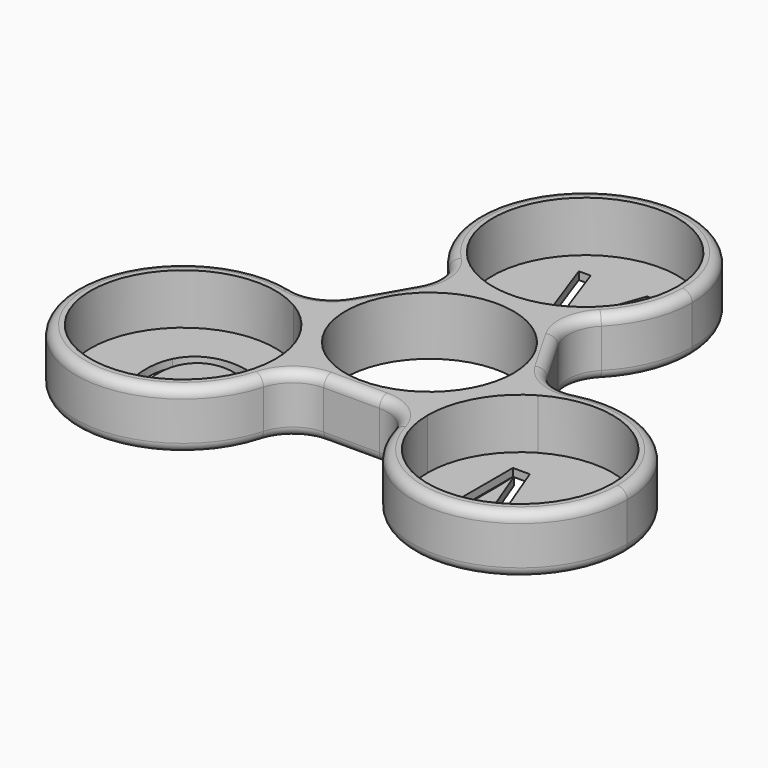
from build123d import *

# Parameters (mm, degrees)
F1_DEPTH = 1.016
F0_R     = 10.9601
F2_DEPTH = 7.62
F3_R     = 5.08
F4_R     = 1.27


with BuildPart() as f1:
    # F0 (on Top) → F1 (new body)
    with BuildSketch(Plane.XY):
        with BuildLine():
            ThreePointArc((-15.9645452561, -2.2514035033), (-32.4456417528, -18.7325), (-9.9320452561, -12.7))
            Line((-9.9320452561, -12.7), (-21.9970452561, -12.7))
            Line((-21.9970452561, -12.7), (-19.1639583446, -7.792949527))
            add(Edge.make_bspline(
                [(-19.1639583446, -7.792949527), (-19.9562504983, -7.5874782986), (-20.748542652, -7.5874782986)],
                knots=[0.4461058905, 0.4461058905, 0.4461058905, 1, 1, 1], degree=2))
            add(Edge.make_bspline(
                [(-20.748542652, -7.5874782986), (-22.8238681728, -7.5874782986), (-24.0255174783, -8.9696506076)],
                knots=[0, 0, 0, 1, 1, 1], degree=2))
            add(Edge.make_bspline(
                [(-24.0255174783, -8.9696506076), (-25.2271667839, -10.3518229167), (-25.2271667839, -12.7551215278)],
                knots=[0, 0, 0, 1, 1, 1], degree=2))
            add(Edge.make_bspline(
                [(-25.2271667839, -12.7551215278), (-25.2271667839, -15.2245659722), (-24.0682366624, -16.5736653646)],
                knots=[0, 0, 0, 1, 1, 1], degree=2))
            add(Edge.make_bspline(
                [(-24.0682366624, -16.5736653646), (-22.9093065408, -17.9227647569), (-20.7650791103, -17.9227647569)],
                knots=[0, 0, 0, 1, 1, 1], degree=2))
            add(Edge.make_bspline(
                [(-20.7650791103, -17.9227647569), (-19.4476745964, -17.9227647569), (-17.75819977, -17.4487196181)],
                knots=[0, 0, 0, 1, 1, 1], degree=2))
            Line((-17.75819977, -17.4487196181), (-17.75819977, -18.7302951389))
            add(Edge.make_bspline(
                [(-17.75819977, -18.7302951389), (-19.0673360547, -19.2236328125), (-20.9883212978, -19.2236328125)],
                knots=[0, 0, 0, 1, 1, 1], degree=2))
            add(Edge.make_bspline(
                [(-20.9883212978, -19.2236328125), (-23.7692023742, -19.2236328125), (-25.2809102735, -17.5341579861)],
                knots=[0, 0, 0, 1, 1, 1], degree=2))
            add(Edge.make_bspline(
                [(-25.2809102735, -17.5341579861), (-26.7926181728, -15.8446831597), (-26.7926181728, -12.7358289931)],
                knots=[0, 0, 0, 1, 1, 1], degree=2))
            add(Edge.make_bspline(
                [(-26.7926181728, -12.7358289931), (-26.7926181728, -10.7900390625), (-26.0650140061, -9.3265625)],
                knots=[0, 0, 0, 1, 1, 1], degree=2))
            add(Edge.make_bspline(
                [(-26.0650140061, -9.3265625), (-25.3374098395, -7.8630859375), (-23.9635057596, -7.0707139757)],
                knots=[0, 0, 0, 1, 1, 1], degree=2))
            add(Edge.make_bspline(
                [(-23.9635057596, -7.0707139757), (-22.5896016797, -6.2783420139), (-20.7292501172, -6.2783420139)],
                knots=[0, 0, 0, 1, 1, 1], degree=2))
            add(Edge.make_bspline(
                [(-20.7292501172, -6.2783420139), (-19.4939442592, -6.2783420139), (-18.4519604406, -6.5597329823)],
                knots=[0, 0, 0, 0.6242503667, 0.6242503667, 0.6242503667], degree=2))
            Line((-18.4519604406, -6.5597329823), (-15.9645452561, -2.2514035033))
        make_face()
        with BuildLine():
            Line((-21.9970452561, -12.7), (-9.9320452561, -12.7))
            ThreePointArc((-9.9320452561, -12.7), (-11.5484487595, -6.6675), (-15.9645452561, -2.2514035033))
            Line((-15.9645452561, -2.2514035033), (-18.4519604406, -6.5597329823))
            add(Edge.make_bspline(
                [(-18.4519604406, -6.5597329823), (-17.8247681173, -6.7291082183), (-17.2676181728, -7.0004340278)],
                knots=[0.6242503667, 0.6242503667, 0.6242503667, 1, 1, 1], degree=2))
            Line((-17.2676181728, -7.0004340278), (-17.8877353603, -8.2572048611))
            add(Edge.make_bspline(
                [(-17.8877353603, -8.2572048611), (-18.5258468525, -7.9584358966), (-19.1639583446, -7.792949527)],
                knots=[0, 0, 0, 0.4461058905, 0.4461058905, 0.4461058905], degree=2))
            Line((-19.1639583446, -7.792949527), (-21.9970452561, -12.7))
        make_face()
    extrude(amount=F1_DEPTH)


with BuildPart() as f1b:
    # F0 (on Top) → F1, piece 2 (new body)
    with BuildSketch(Plane.XY):
        with BuildLine():
            ThreePointArc((15.9645452561, -2.2514035033), (11.5484487595, -6.6675), (9.9320452561, -12.7))
            Line((9.9320452561, -12.7), (16.0549445617, -12.7))
            Line((16.0549445617, -12.7), (16.0549445617, -6.4574869792))
            Line((16.0549445617, -6.4574869792), (18.2598056728, -6.4574869792))
            Line((18.2598056728, -6.4574869792), (20.6564404144, -12.7))
            Line((20.6564404144, -12.7), (21.9970452561, -12.7))
            Line((21.9970452561, -12.7), (15.9645452561, -2.2514035033))
        make_face()
        with BuildLine():
            Line((16.0549445617, -12.7), (9.9320452561, -12.7))
            ThreePointArc((9.9320452561, -12.7), (21.9970452561, -24.765), (34.0620452561, -12.7))
            ThreePointArc((34.0620452561, -12.7), (28.0295452561, -2.2514035033), (15.9645452561, -2.2514035033))
            Line((15.9645452561, -2.2514035033), (21.9970452561, -12.7))
            Line((21.9970452561, -12.7), (20.6564404144, -12.7))
            Line((20.6564404144, -12.7), (22.2478482075, -16.8451388889))
            Line((22.2478482075, -16.8451388889), (22.3167501172, -16.8451388889))
            Line((22.3167501172, -16.8451388889), (26.3378655686, -6.4574869792))
            Line((26.3378655686, -6.4574869792), (28.5261902214, -6.4574869792))
            Line((28.5261902214, -6.4574869792), (28.5261902214, -19.05))
            Line((28.5261902214, -19.05), (27.0627136589, -19.05))
            Line((27.0627136589, -19.05), (27.0627136589, -10.9361111111))
            add(Edge.make_bspline(
                [(27.0627136589, -10.9361111111), (27.0627136589, -9.5415364583), (27.18398102, -7.9044270833)],
                knots=[0, 0, 0, 1, 1, 1], degree=2))
            Line((27.18398102, -7.9044270833), (27.1150791103, -7.9044270833))
            Line((27.1150791103, -7.9044270833), (22.8073317145, -19.05))
            Line((22.8073317145, -19.05), (21.62773102, -19.05))
            Line((21.62773102, -19.05), (19.1974841064, -12.7))
            Line((19.1974841064, -12.7), (17.4081780686, -12.7))
            Line((17.4081780686, -12.7), (17.4081780686, -19.05))
            Line((17.4081780686, -19.05), (16.0549445617, -19.05))
            Line((16.0549445617, -19.05), (16.0549445617, -12.7))
        make_face()
        with BuildLine():
            Line((17.4081780686, -11.0408420139), (17.4081780686, -12.7))
            Line((17.4081780686, -12.7), (19.1974841064, -12.7))
            Line((19.1974841064, -12.7), (17.3558126172, -7.887890625))
            Line((17.3558126172, -7.887890625), (17.2869107075, -7.887890625))
            add(Edge.make_bspline(
                [(17.2869107075, -7.887890625), (17.4081780686, -9.2135633681), (17.4081780686, -11.0408420139)],
                knots=[0, 0, 0, 1, 1, 1], degree=2))
        make_face()
    extrude(amount=F1_DEPTH)


with BuildPart() as f1c:
    # F0 (on Top) → F1, piece 3 (new body)
    with BuildSketch(Plane.XY):
        with BuildLine():
            Line((0, 25.4), (-1.2715549286, 23.1976022591))
            add(Edge.make_bspline(
                [(-1.2715549286, 23.1976022591), (-0.8453750991, 21.9490229211), (-0.5842881944, 20.7642795139)],
                knots=[0.1063077872, 0.1063077872, 0.1063077872, 1, 1, 1], degree=2))
            add(Edge.make_bspline(
                [(-0.5842881944, 20.7642795139), (-0.2728515625, 22.1588541667), (0.2259982639, 23.5451605903)],
                knots=[0, 0, 0, 1, 1, 1], degree=2))
            Line((0.2259982639, 23.5451605903), (0.5478913232, 24.4510243912))
            Line((0.5478913232, 24.4510243912), (0, 25.4))
        make_face()
        with BuildLine():
            ThreePointArc((12.065, 25.4), (-6.0325, 35.8485964967), (-6.0325, 14.9514035033))
            Line((-6.0325, 14.9514035033), (-2.2103607688, 21.5715428454))
            Line((-2.2103607688, 21.5715428454), (-5.8208333333, 31.6425130208))
            Line((-5.8208333333, 31.6425130208), (-4.2691623264, 31.6425130208))
            Line((-4.2691623264, 31.6425130208), (-1.3752821181, 23.4955512153))
            add(Edge.make_bspline(
                [(-1.3752821181, 23.4955512153), (-1.3222504969, 23.3461251003), (-1.2715549286, 23.1976022591)],
                knots=[0, 0, 0, 0.1063077872, 0.1063077872, 0.1063077872], degree=2))
            Line((-1.2715549286, 23.1976022591), (0, 25.4))
            Line((0, 25.4), (0.5478913232, 24.4510243912))
            Line((0.5478913232, 24.4510243912), (3.1033420139, 31.6425130208))
            Line((3.1033420139, 31.6425130208), (4.6770616319, 31.6425130208))
            Line((4.6770616319, 31.6425130208), (1.4952000684, 22.8102375141))
            Line((1.4952000684, 22.8102375141), (6.0325, 14.9514035033))
            ThreePointArc((6.0325, 14.9514035033), (10.4485964967, 19.3675), (12.065, 25.4))
        make_face()
        with BuildLine():
            Line((-2.2103607688, 21.5715428454), (-6.0325, 14.9514035033))
            ThreePointArc((-6.0325, 14.9514035033), (0, 13.335), (6.0325, 14.9514035033))
            Line((6.0325, 14.9514035033), (1.4952000684, 22.8102375141))
            Line((1.4952000684, 22.8102375141), (0.1405598958, 19.05))
            Line((0.1405598958, 19.05), (-1.3063802083, 19.05))
            Line((-1.3063802083, 19.05), (-2.2103607688, 21.5715428454))
        make_face()
    extrude(amount=F1_DEPTH)


with BuildPart() as f2:
    # F0 (on Top) → F2 (new body)
    with BuildSketch(Plane.XY):
        with BuildLine():
            ThreePointArc((13.97, 25.4), (-6.985, 37.4983748909), (-6.985, 13.3016251091))
            Line((-6.985, 13.3016251091), (-6.0325, 14.9514035033))
            ThreePointArc((-6.0325, 14.9514035033), (-6.0325, 35.8485964967), (12.065, 25.4))
            ThreePointArc((12.065, 25.4), (10.4485964967, 19.3675), (6.0325, 14.9514035033))
            Line((6.0325, 14.9514035033), (6.985, 13.3016251091))
            ThreePointArc((6.985, 13.3016251091), (12.0983748909, 18.415), (13.97, 25.4))
        make_face()
        with BuildLine():
            ThreePointArc((-15.0120452561, -0.6016251091), (-34.095420147, -19.685), (-8.0270452561, -12.7))
            Line((-8.0270452561, -12.7), (-9.9320452561, -12.7))
            ThreePointArc((-9.9320452561, -12.7), (-32.4456417528, -18.7325), (-15.9645452561, -2.2514035033))
            Line((-15.9645452561, -2.2514035033), (-15.0120452561, -0.6016251091))
        make_face()
        with BuildLine():
            ThreePointArc((15.0120452561, -0.6016251091), (9.8986703653, -5.715), (8.0270452561, -12.7))
            Line((8.0270452561, -12.7), (9.9320452561, -12.7))
            ThreePointArc((9.9320452561, -12.7), (11.5484487595, -6.6675), (15.9645452561, -2.2514035033))
            Line((15.9645452561, -2.2514035033), (15.0120452561, -0.6016251091))
        make_face()
        with BuildLine():
            Line((9.9320452561, -12.7), (8.0270452561, -12.7))
            ThreePointArc((8.0270452561, -12.7), (21.9970452561, -26.67), (35.9670452561, -12.7))
            ThreePointArc((35.9670452561, -12.7), (28.9820452561, -0.6016251091), (15.0120452561, -0.6016251091))
            Line((15.0120452561, -0.6016251091), (15.9645452561, -2.2514035033))
            ThreePointArc((15.9645452561, -2.2514035033), (28.0295452561, -2.2514035033), (34.0620452561, -12.7))
            ThreePointArc((34.0620452561, -12.7), (21.9970452561, -24.765), (9.9320452561, -12.7))
        make_face()
        with BuildLine():
            Line((-9.9320452561, -12.7), (-8.0270452561, -12.7))
            ThreePointArc((-8.0270452561, -12.7), (-9.8986703653, -5.715), (-15.0120452561, -0.6016251091))
            Line((-15.0120452561, -0.6016251091), (-15.9645452561, -2.2514035033))
            ThreePointArc((-15.9645452561, -2.2514035033), (-11.5484487595, -6.6675), (-9.9320452561, -12.7))
        make_face()
        with BuildLine():
            ThreePointArc((-15.0120452561, -0.6016251091), (-9.8986703653, -5.715), (-8.0270452561, -12.7))
            Line((-8.0270452561, -12.7), (8.0270452561, -12.7))
            ThreePointArc((8.0270452561, -12.7), (9.8986703653, -5.715), (15.0120452561, -0.6016251091))
            Line((15.0120452561, -0.6016251091), (6.985, 13.3016251091))
            ThreePointArc((6.985, 13.3016251091), (0, 11.43), (-6.985, 13.3016251091))
            Line((-6.985, 13.3016251091), (-15.0120452561, -0.6016251091))
        make_face()
        Circle(F0_R, mode=Mode.SUBTRACT)
        with BuildLine():
            Line((-6.0325, 14.9514035033), (-6.985, 13.3016251091))
            ThreePointArc((-6.985, 13.3016251091), (0, 11.43), (6.985, 13.3016251091))
            Line((6.985, 13.3016251091), (6.0325, 14.9514035033))
            ThreePointArc((6.0325, 14.9514035033), (0, 13.335), (-6.0325, 14.9514035033))
        make_face()
    extrude(amount=F2_DEPTH)

    # F3
    f3_edges = [f2.edges().sort_by_distance(p)[0] for p in [
        (-15.012045, -0.601625, 3.81),
        (15.012045, -0.601625, 3.81),
        (6.985, 13.301625, 3.81),
        (-6.985, 13.301625, 3.81),
        (8.027045, -12.7, 3.81),
        (-8.027045, -12.7, 3.81),
    ]]
    fillet(f3_edges, radius=F3_R)

    # F4
    f4_edges = [f2.edges().sort_by_distance(p)[0] for p in [
        (0, 39.37, 7.62),
        (-8.540303, 12.682206, 0),
    ]]
    fillet(f4_edges, radius=F4_R)


solid = Compound([f1.part, f1b.part, f1c.part, f2.part])
